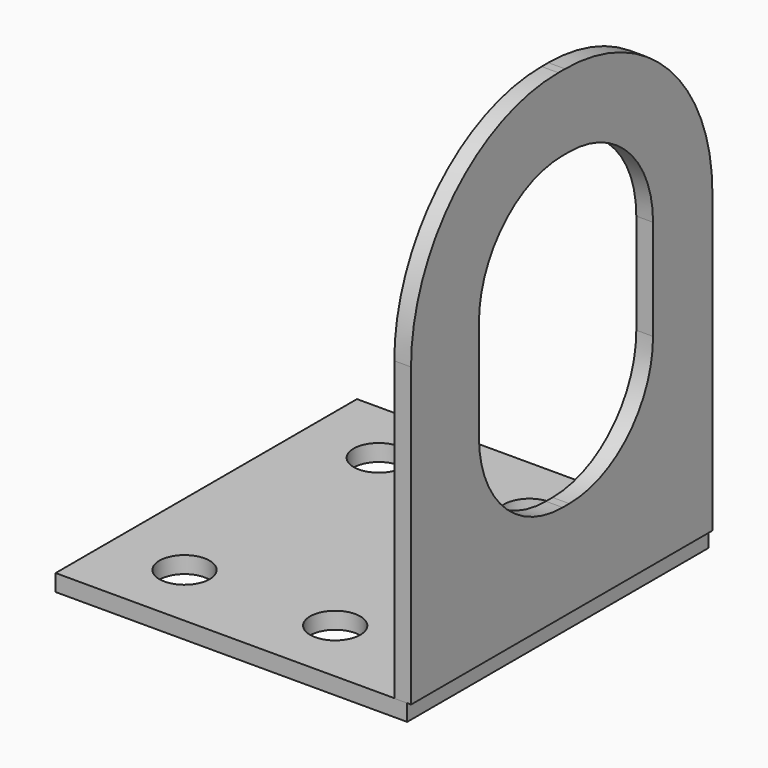
from build123d import *

# Parameters (mm, degrees)
SKETCH017_W             = 42
SKETCH017_H             = 45
SKETCH017_R             = 3
PAD012_DEPTH            = 2
SKETCH018_W             = 57.5
SKETCH018_H             = 45
PAD013_DEPTH            = 2
FILLET_R                = 22
BODY005_PITCH_ANGLE     = 90
BODY005_PLACEMENT_ANGLE = 90


with BuildPart() as part:
    # Sketch017 → Pad012 (new body)
    with BuildSketch(Plane(origin=(-40, 3, -3), x_dir=(0, 1, 0), z_dir=(1, 0, 0))):
        with Locations((18.460948, -2.635084)):
            Rectangle(SKETCH017_W, SKETCH017_H)
        with Locations((12.460948, 11.864916)):
            Circle(SKETCH017_R, mode=Mode.SUBTRACT)
        with Locations((30.460948, 11.864916)):
            Circle(SKETCH017_R, mode=Mode.SUBTRACT)
        with Locations((30.460948, -17.135084)):
            Circle(SKETCH017_R, mode=Mode.SUBTRACT)
        with Locations((12.460948, -17.135084)):
            Circle(SKETCH017_R, mode=Mode.SUBTRACT)
    extrude(amount=-PAD012_DEPTH)

    # Sketch018 → Pad013 (join)
    with BuildSketch(Plane(origin=(-21, 0, -3), x_dir=(1, 0, 0), z_dir=(0, -1, 0))):
        with Locations((-49.725473, -2.637928)):
            Rectangle(SKETCH018_W, SKETCH018_H)
        with BuildLine():
            Line((-57, -15), (-45, -15))
            ThreePointArc((-45, -15), (-36.161165, -11.338835), (-32.5, -2.5))
            Line((-32.5, -2.5), (-32.5, -1.5))
            ThreePointArc((-32.5, -1.5), (-36.161165, 7.338835), (-45, 11))
            Line((-45, 11), (-57, 11))
            ThreePointArc((-57, 11), (-65.838835, 7.338835), (-69.5, -1.5))
            Line((-69.5, -1.5), (-69.5, -2.5))
            ThreePointArc((-69.5, -2.5), (-65.838835, -11.338835), (-57, -15))
        make_face(mode=Mode.SUBTRACT)
    extrude(amount=-PAD013_DEPTH)

    # Fillet
    fillet_edges = [part.edges().sort_by_distance(p)[0] for p in [
        (-99.475473, 1, -28.137928),
        (-99.475473, 1, 16.862072),
    ]]
    fillet(fillet_edges, radius=FILLET_R)


with BuildPart() as part_1:
    # Body005 pitch: moved
    add(part.part.rotate(Axis((0, 0, 0), (0, 1, 0)), BODY005_PITCH_ANGLE))


with BuildPart() as part_2:
    # Body005 placement: moved
    add(part_1.part.moved(Location((88.25, 280.741562, -70.096386))).rotate(Axis((88.25, 280.741562, -70.096386), (0, 0, 1)), BODY005_PLACEMENT_ANGLE))


solid = part_2.part
